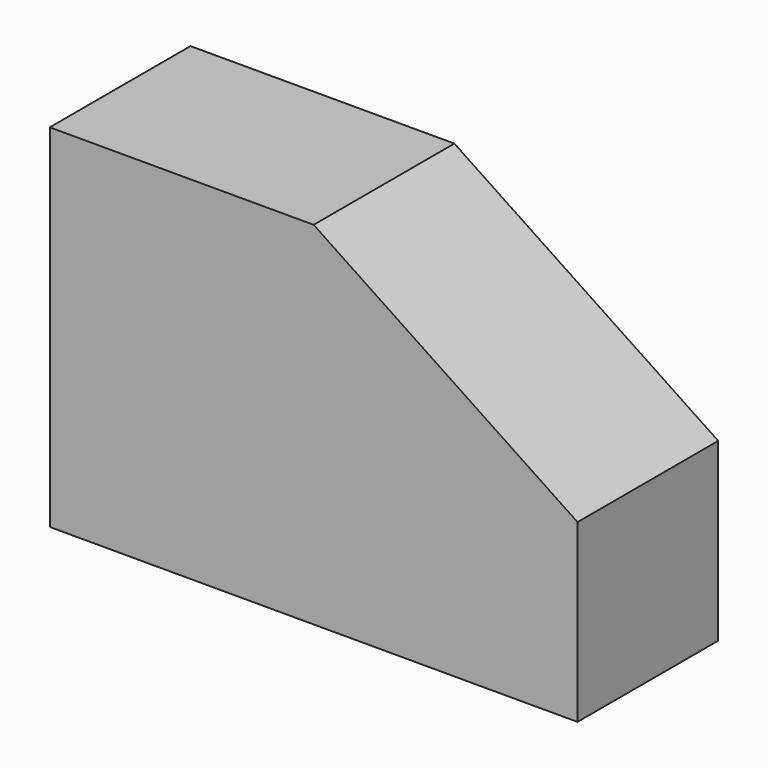
from build123d import *

# Parameters (mm, degrees)
F1_DEPTH = 25.4


with BuildPart() as f1:
    # F0 (on Front) → F1 (new body)
    with BuildSketch(Plane.XZ):
        Polygon((-38.099996, -2.884607), (-38.099996, -53.684607), (38.100004, -53.684607), (38.100004, -28.284607), (4e-06, -2.884607), align=None)
    extrude(amount=F1_DEPTH)


solid = f1.part
